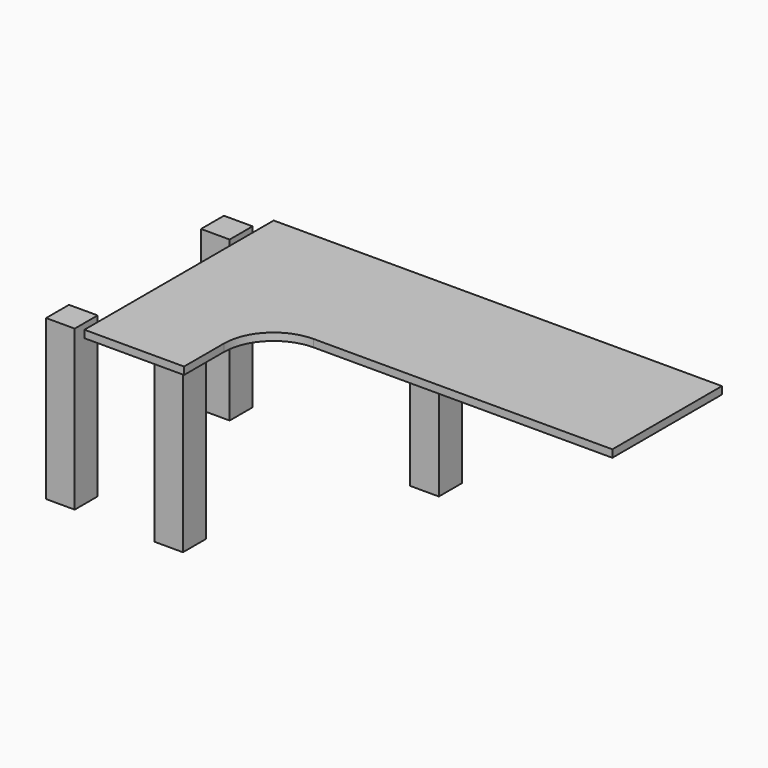
from build123d import *

# Parameters (mm, degrees)
F1_DEPTH = 30
F2_W     = 115
F2_H     = 115
F3_DEPTH = 640


with BuildPart() as f1:
    # F0 (on Top) → F1 (new body)
    with BuildSketch(Plane.XY):
        with BuildLine():
            Line((358.666953, 0), (1558.666953, 0))
            Line((1558.666953, 0), (1558.666953, 550))
            Line((1558.666953, 550), (-241.333047, 550))
            Line((-241.333047, 550), (-241.333047, 0))
            Line((-241.333047, 0), (-241.333047, -400))
            Line((-241.333047, -400), (158.666953, -400))
            Line((158.666953, -400), (158.666953, -200))
            ThreePointArc((158.666953, -200), (217.245597, -58.578644), (358.666953, 0))
        make_face()
    extrude(amount=F1_DEPTH)


with BuildPart() as f3:
    # F2 (on face) → F3 (new body)
    with BuildSketch(Plane(origin=(0, 0, 0), x_dir=(1, 0, 0), z_dir=(0, 0, -1))):
        with Locations((-361.874406, -465.310191)):
            Rectangle(F2_W, F2_H)
        with Locations((472.566004, -472.310876)):
            Rectangle(F2_W, F2_H)
        with Locations((-363.296896, 310.615311)):
            Rectangle(F2_W, F2_H)
        with Locations((82.500002, 324.659343)):
            Rectangle(F2_W, F2_H)
    extrude(amount=F3_DEPTH)


solid = Compound([f1.part, f3.part])
